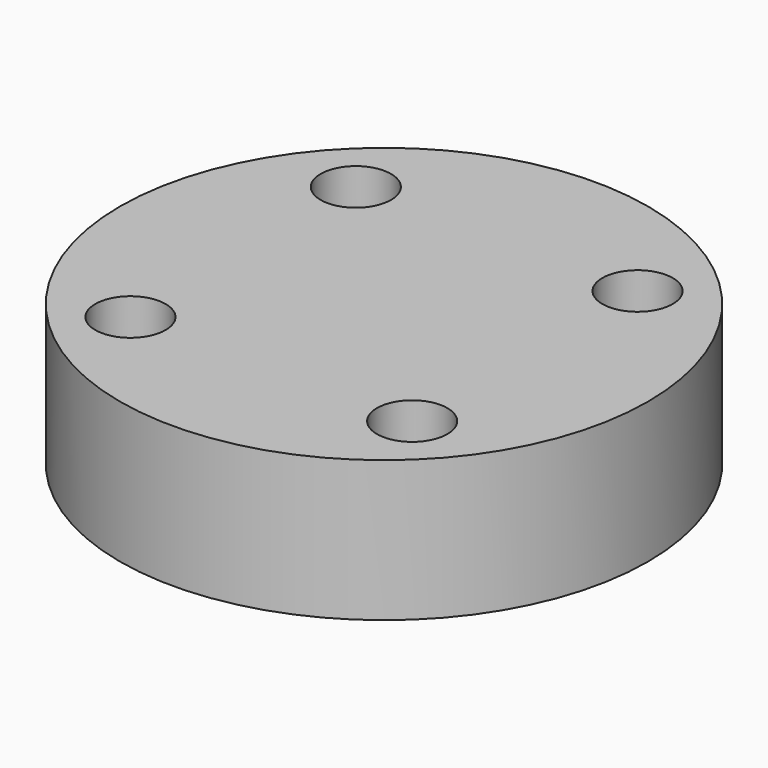
from build123d import *

# Parameters (mm, degrees)
CYLINDER1384_R     = 1
CYLINDER1384_DEPTH = 20
CYLINDER1389_R     = 1
CYLINDER1389_DEPTH = 20
CYLINDER1379_R     = 1
CYLINDER1379_DEPTH = 20
CYLINDER1391_R     = 1
CYLINDER1391_DEPTH = 20
CYLINDER1376_R     = 7.5
CYLINDER1376_DEPTH = 4


with BuildPart() as obj1:
    # Cylinder1384 → Cylinder1384 (new body)
    with BuildSketch(Plane(origin=(4, -4, -88), x_dir=(0, 1, 0), z_dir=(0, 0, 1))):
        Circle(CYLINDER1384_R)
    extrude(amount=CYLINDER1384_DEPTH)


with BuildPart() as obj2:
    # Cylinder1389 → Cylinder1389 (new body)
    with BuildSketch(Plane(origin=(4, 4, -88), x_dir=(-1, 0, 0), z_dir=(0, 0, 1))):
        Circle(CYLINDER1389_R)
    extrude(amount=CYLINDER1389_DEPTH)


with BuildPart() as obj3:
    # Cylinder1379 → Cylinder1379 (new body)
    with BuildSketch(Plane(origin=(-4, 4, -88), x_dir=(0, -1, 0), z_dir=(0, 0, 1))):
        Circle(CYLINDER1379_R)
    extrude(amount=CYLINDER1379_DEPTH)


with BuildPart() as compound959:
    # Cylinder1391 → Cylinder1391 (new body)
    with BuildSketch(Plane(origin=(-4, -4, -88), x_dir=(1, 0, 0), z_dir=(0, 0, 1))):
        Circle(CYLINDER1391_R)
    extrude(amount=CYLINDER1391_DEPTH)

    # Compound959: union obj1, obj2, obj3
    add(obj1.part)
    add(obj2.part)
    add(obj3.part)


with BuildPart() as compound959_1:
    # Compound959 placement: moved
    add(compound959.part.moved(Location((0, 0, 91))))


with BuildPart() as cut499:
    # Cylinder1376 → Cylinder1376 (new body)
    with BuildSketch(Plane.XY.offset(15)):
        Circle(CYLINDER1376_R)
    extrude(amount=CYLINDER1376_DEPTH)

    # Cut499: cut Compound959
    add(compound959_1.part, mode=Mode.SUBTRACT)


solid = cut499.part
